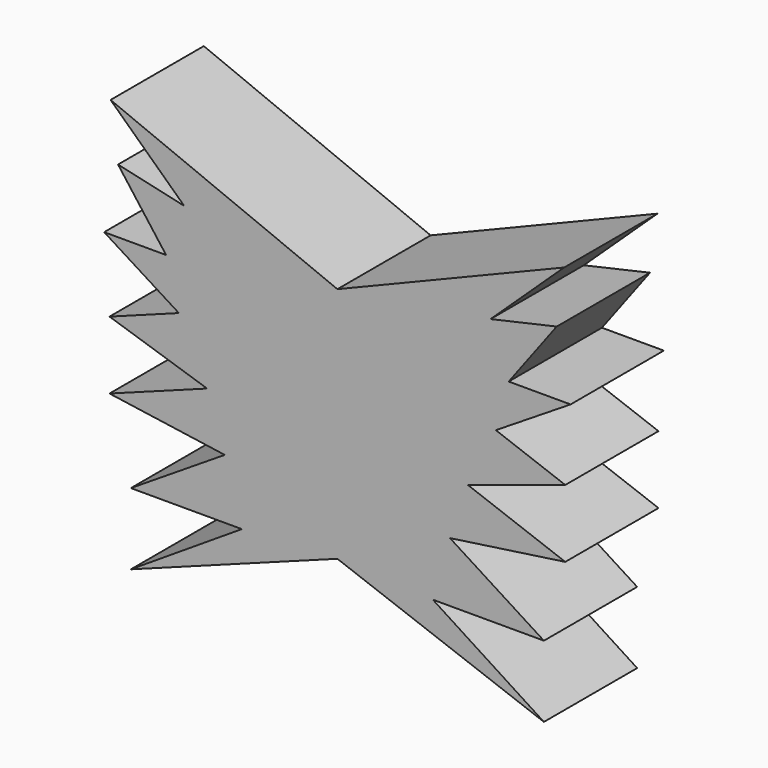
from build123d import *

# Parameters (mm, degrees)
F1_DEPTH = 25


with BuildPart() as f1:
    # F0 (on Front) → F1 (new body)
    with BuildSketch(Plane.XZ):
        Polygon((48.646443, 55.514175), (0, 35.597749), (0, -15.310175), (44.296879, -31.706035), (20.488737, -16.368097), (44.296879, -16.368097), (24.151526, -3.548329), (48.875365, 0), (27.938413, 7.749516), (48.875365, 14.523235), (33.995278, 20.030888), (50.019987, 30.103562), (36.742371, 30.103562), (47.043972, 43.839026), (32.850657, 40.634084), align=None)
        Polygon((0, -15.310175), (0, 35.597749), (-48.646443, 55.514175), (-32.850657, 40.634084), (-47.043972, 43.839026), (-36.742371, 30.103562), (-50.019987, 30.103562), (-33.995278, 20.030888), (-48.875365, 14.523235), (-27.938413, 7.749516), (-48.875365, 0), (-24.151526, -3.548329), (-44.296879, -16.368097), (-20.488737, -16.368097), (-44.296879, -31.706035), align=None)
    extrude(amount=F1_DEPTH)


solid = f1.part
